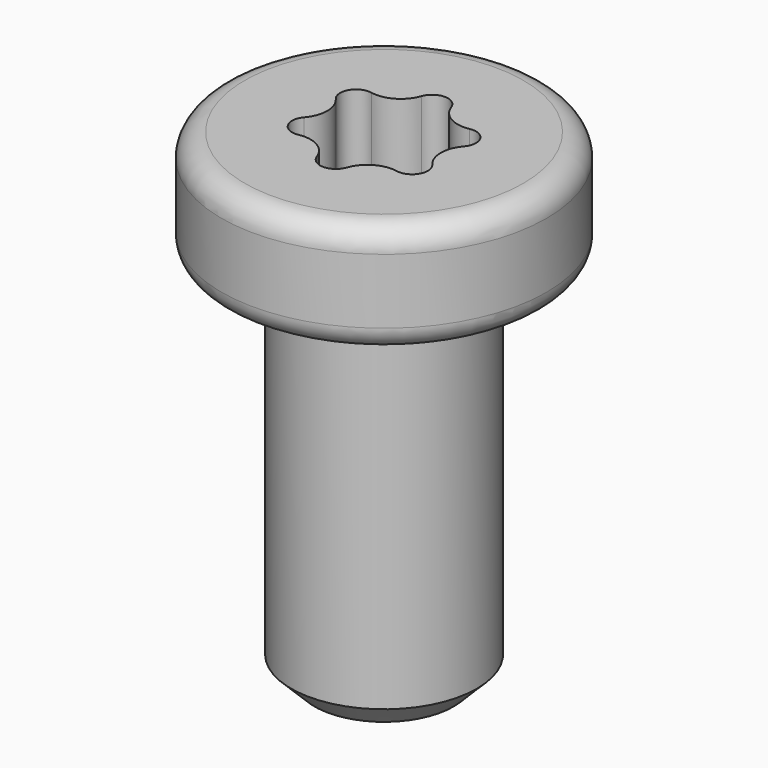
from build123d import *

# Parameters (mm, degrees)
F0_R     = 2
F1_DEPTH = 8
F2_R     = 3.5
F3_DEPTH = 2.4
F4_R     = 0.5
F5_SIZE  = 0.5
F7_DEPTH = 1.5


with BuildPart() as f1:
    # F0 (on Top) → F1 (new body)
    with BuildSketch(Plane.XY):
        Circle(F0_R)
    extrude(amount=F1_DEPTH)

    # F2 (on face) → F3 (join)
    with BuildSketch(Plane.XY.offset(8)):
        Circle(F2_R)
    extrude(amount=F3_DEPTH)

    # F4
    f4_edges = [f1.edges().sort_by_distance(p)[0] for p in [
        (-3.5, 0, 10.4),
        (-3.5, 0, 8),
    ]]
    fillet(f4_edges, radius=F4_R)

    # F5
    f5_edges = [f1.edges().sort_by_distance(p)[0] for p in [
        (-2, 0, 0),
    ]]
    chamfer(f5_edges, length=F5_SIZE)

    # F6 (on face) → F7 (cut)
    with BuildSketch(Plane.XY.offset(10.4)):
        with BuildLine():
            ThreePointArc((1.05752, 0.981425), (0.610199, 1.056896), (0.321179, 1.406552))
            ThreePointArc((0.321179, 1.406552), (0, 1.635), (-0.321179, 1.406552))
            ThreePointArc((-0.321179, 1.406552), (-0.610199, 1.056896), (-1.05752, 0.981425))
            ThreePointArc((-1.05752, 0.981425), (-1.415952, 0.8175), (-1.378699, 0.425126))
            ThreePointArc((-1.378699, 0.425126), (-1.220398, 0), (-1.378699, -0.425126))
            ThreePointArc((-1.378699, -0.425126), (-1.415952, -0.8175), (-1.05752, -0.981425))
            ThreePointArc((-1.05752, -0.981425), (-0.610199, -1.056896), (-0.321179, -1.406552))
            ThreePointArc((-0.321179, -1.406552), (0, -1.635), (0.321179, -1.406552))
            ThreePointArc((0.321179, -1.406552), (0.610199, -1.056896), (1.05752, -0.981425))
            ThreePointArc((1.05752, -0.981425), (1.415952, -0.8175), (1.378699, -0.425126))
            ThreePointArc((1.378699, -0.425126), (1.220398, 0), (1.378699, 0.425126))
            ThreePointArc((1.378699, 0.425126), (1.415952, 0.8175), (1.05752, 0.981425))
        make_face()
    extrude(amount=-F7_DEPTH, mode=Mode.SUBTRACT)


solid = f1.part
